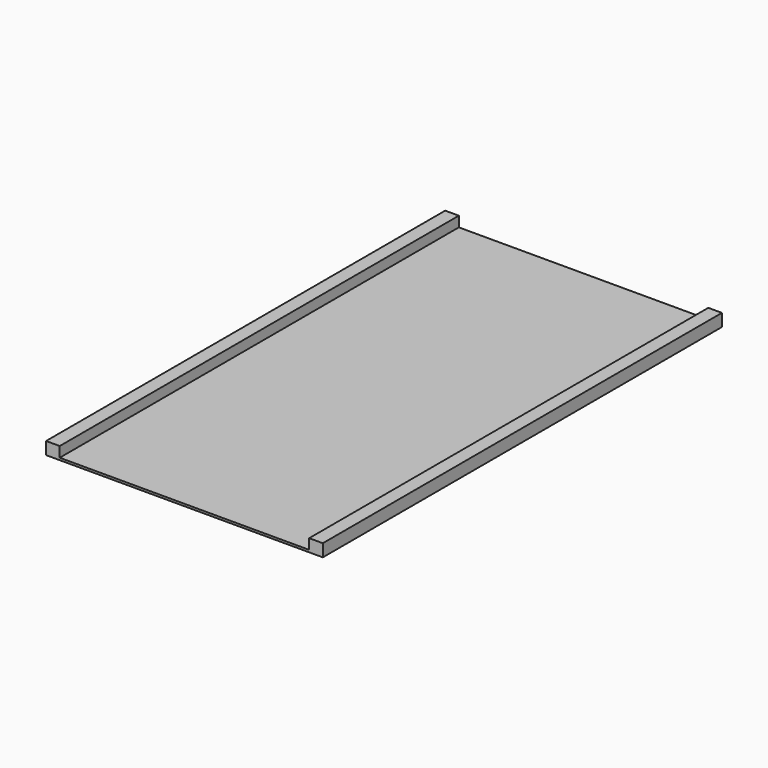
from build123d import *

# Parameters (mm, degrees)
F0_W     = 127
F0_H     = 2.221532
F1_DEPTH = 508


with BuildPart() as f1:
    # F0 (on Front) → F1 (new body)
    with BuildSketch(Plane.XZ):
        with Locations((63.5, 0)):
            Rectangle(F0_W, F0_H)
        Polygon((127, 1.110766), (127, -1.110766), (140.89732, -1.110766), (140.89732, 11.589234), (127, 11.589234), align=None)
        with Locations((-63.5, 0)):
            Rectangle(F0_W, F0_H)
        Polygon((-140.89732, -1.110766), (-127, -1.110766), (-127, 1.110766), (-127, 11.589234), (-140.89732, 11.589234), align=None)
    extrude(amount=F1_DEPTH)


solid = f1.part
